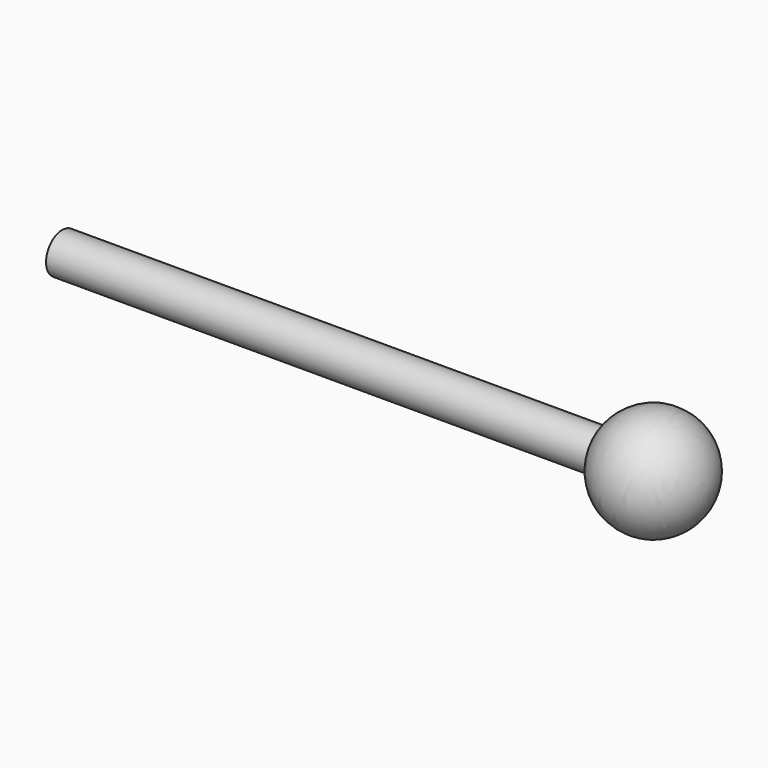
from build123d import *


with BuildPart() as f1:
    # F0 (on Top) → F1 (revolve)
    with BuildSketch(Plane.XY):
        with BuildLine():
            ThreePointArc((40, 0), (23.820345, 19.631734), (1.459504, 7.5))
            Line((1.459504, 7.5), (-200.282007, 7.5))
            Line((-200.282007, 7.5), (-200, 0))
            Line((-200, 0), (40, 0))
        make_face()
    revolve(axis=Axis((0, 0, 0), (1, 0, 0)))


solid = f1.part
